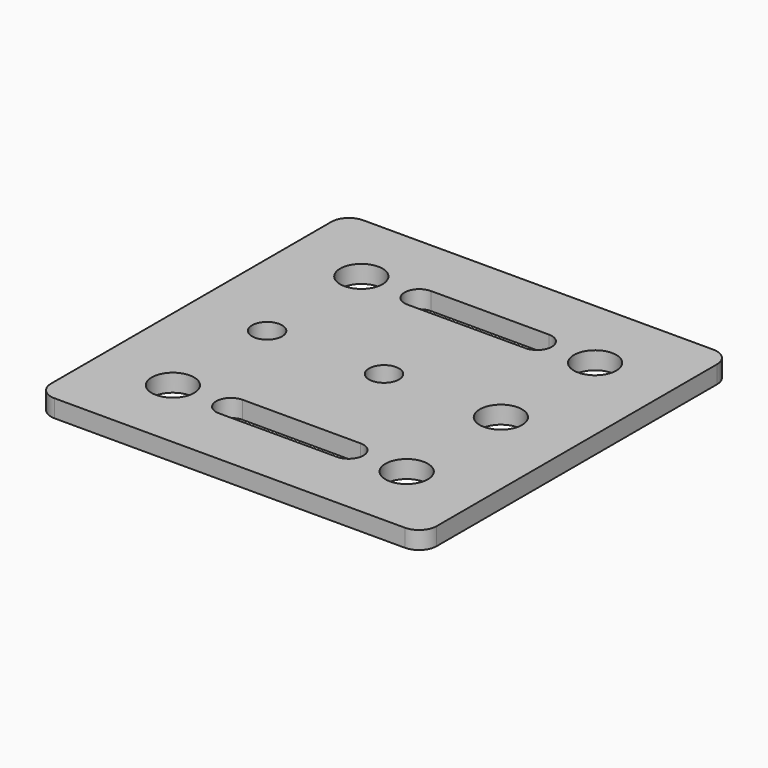
from build123d import *

# Parameters (mm, degrees)
SKETCH_R   = 2.55
SKETCH_R_2 = 3.6
PAD_DEPTH  = 3


with BuildPart() as part:
    # Sketch → Pad (new body)
    with BuildSketch(Plane.XY):
        with BuildLine():
            ThreePointArc((-29.75, 32.75), (-31.87132, 31.87132), (-32.75, 29.75))
            Line((-32.75, -29.75), (-32.75, 29.75))
            ThreePointArc((-32.75, -29.75), (-31.87132, -31.87132), (-29.75, -32.75))
            Line((29.75, -32.75), (-29.75, -32.75))
            ThreePointArc((29.75, -32.75), (31.87132, -31.87132), (32.75, -29.75))
            Line((32.75, 29.75), (32.75, -29.75))
            ThreePointArc((32.75, 29.75), (31.87132, 31.87132), (29.75, 32.75))
            Line((-29.75, 32.75), (29.75, 32.75))
        make_face()
        Circle(SKETCH_R, mode=Mode.SUBTRACT)
        with Locations((-19.85, -20)):
            Circle(SKETCH_R_2, mode=Mode.SUBTRACT)
        with Locations((19.85, -20)):
            Circle(SKETCH_R_2, mode=Mode.SUBTRACT)
        with Locations((19.85, 20)):
            Circle(SKETCH_R_2, mode=Mode.SUBTRACT)
        with Locations((-19.85, 20)):
            Circle(SKETCH_R_2, mode=Mode.SUBTRACT)
        with Locations((-19.85, 0)):
            Circle(SKETCH_R, mode=Mode.SUBTRACT)
        with Locations((19.85, 0)):
            Circle(SKETCH_R_2, mode=Mode.SUBTRACT)
        with BuildLine():
            ThreePointArc((-10, -17.5), (-12.5, -20), (-10, -22.5))
            Line((-10, -22.5), (10, -22.5))
            ThreePointArc((10, -22.5), (12.5, -20), (10, -17.5))
            Line((10, -17.5), (-10, -17.5))
        make_face(mode=Mode.SUBTRACT)
        with BuildLine():
            ThreePointArc((-10, 22.5), (-12.5, 20), (-10, 17.5))
            Line((-10, 17.5), (10, 17.5))
            ThreePointArc((10, 17.5), (12.5, 20), (10, 22.5))
            Line((10, 22.5), (-10, 22.5))
        make_face(mode=Mode.SUBTRACT)
    extrude(amount=PAD_DEPTH)


solid = part.part
